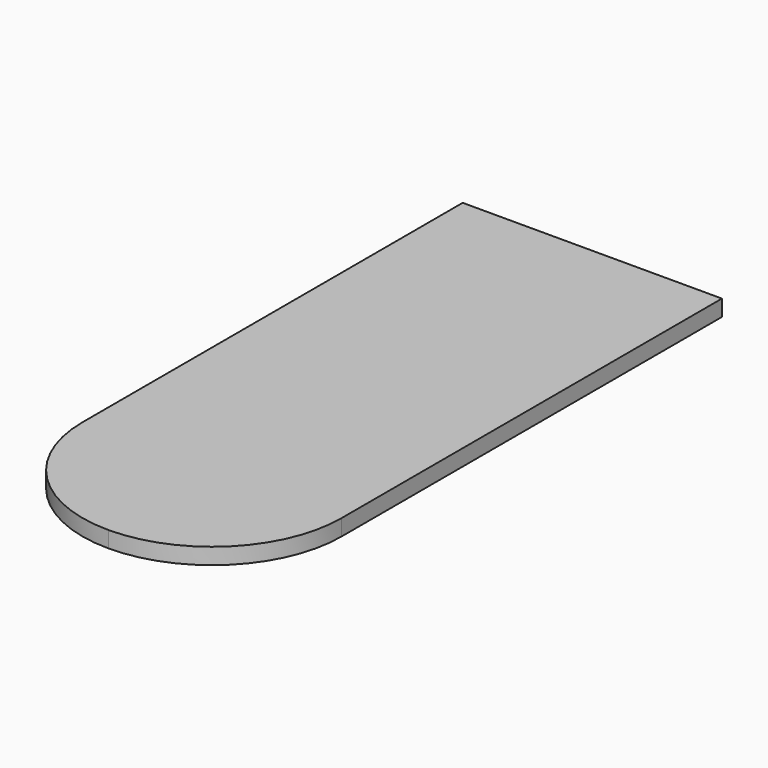
from build123d import *

# Parameters (mm, degrees)
F1_DEPTH = 19.05
F2_R     = 25.4
F3_DEPTH = 9.525


with BuildPart() as f1:
    # F0 (on Top) → F1 (new body)
    with BuildSketch(Plane.XY):
        with BuildLine():
            Line((0, 711.2), (0, 152.4))
            ThreePointArc((0, 152.4), (44.636927, 44.636927), (152.4, 0))
            ThreePointArc((152.4, 0), (260.163073, 44.636927), (304.8, 152.4))
            Line((304.8, 152.4), (304.8, 711.2))
            Line((304.8, 711.2), (0, 711.2))
        make_face()
    extrude(amount=F1_DEPTH)

    # F2 (on face) → F3 (cut)
    with BuildSketch(Plane(origin=(0, 0, 0), x_dir=(1, 0, 0), z_dir=(0, 0, -1))):
        with Locations((152.4, -152.4)):
            Circle(F2_R)
    extrude(amount=-F3_DEPTH, mode=Mode.SUBTRACT)


solid = f1.part
